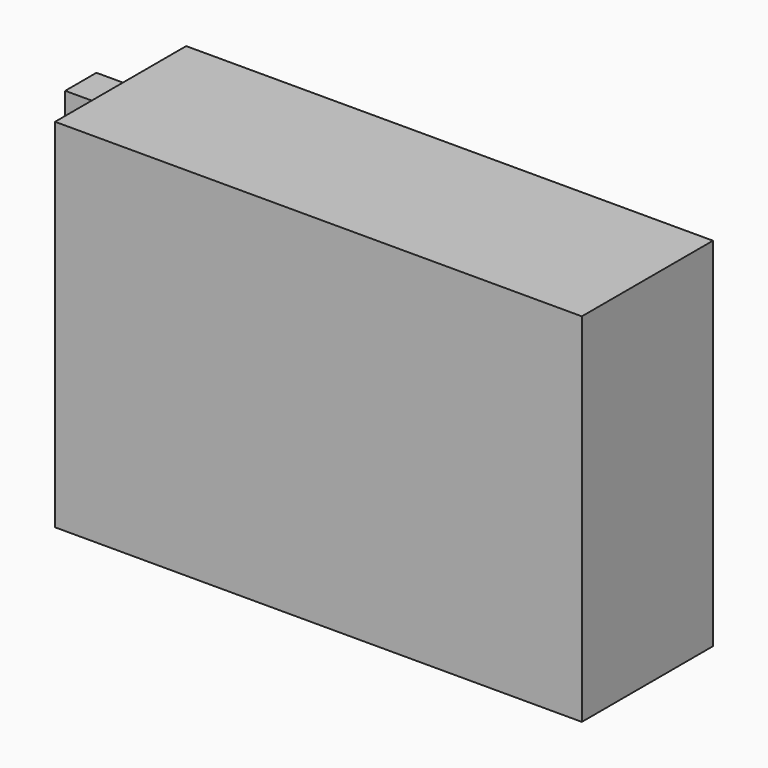
from build123d import *

# Parameters (mm, degrees)
F0_W     = 27
F0_H     = 18.3
F1_DEPTH = 8.4
F2_W     = 4.6
F2_H     = 12.9
F3_DEPTH = 2
F5_D     = 2


with BuildPart() as f1:
    # F0 (on Front) → F1 (new body)
    with BuildSketch(Plane.XZ):
        Rectangle(F0_W, F0_H)
    extrude(amount=F1_DEPTH)


with BuildPart() as f3:
    # F2 (on face) → F3 (new body)
    with BuildSketch(Plane(origin=(0, 0, 0), x_dir=(-1, 0, 0), z_dir=(0, 1, 0))):
        with Locations((15.8, 0)):
            Rectangle(F2_W, F2_H)
    extrude(amount=-F3_DEPTH)

    # F5 (through all)
    with Locations(Plane.XZ.offset(2)):
        with Locations((-15.8, -0.55)):
            Hole(F5_D / 2)


solid = Compound([f1.part, f3.part])
